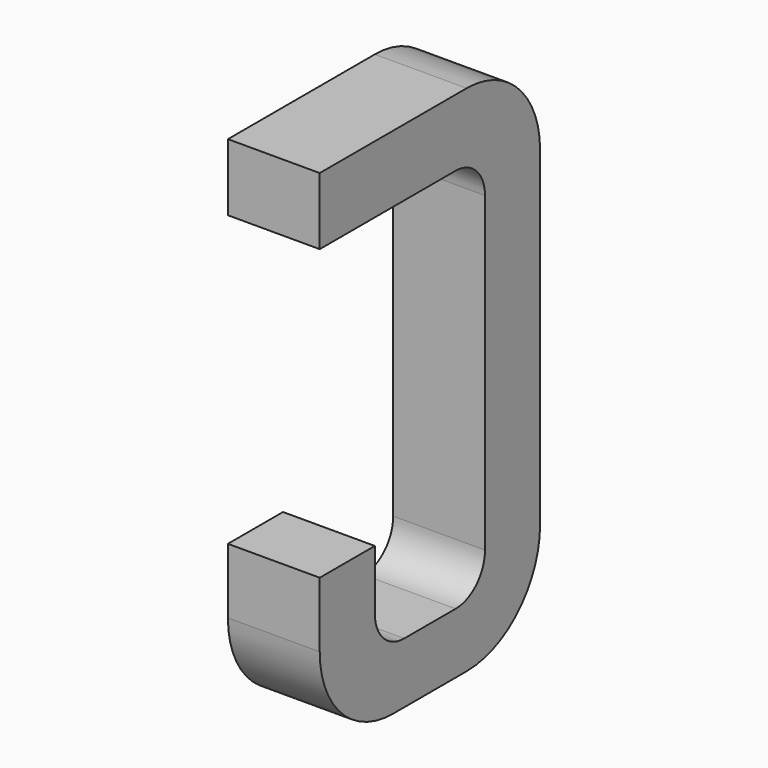
from build123d import *

# Parameters (mm, degrees)
BOX033_W     = 0.5
BOX033_H     = 1.5
BOX033_DEPTH = 2.795
FILLET099_R  = 0.5
FILLET056_R  = 0.5
FILLET109_R  = 0.5
BOX031_W     = 0.75
BOX031_H     = 2.1
BOX031_DEPTH = 1
FILLET111_R  = 0.2
FILLET060_R  = 0.2
FILLET107_R  = 0.2
FILLET108_R  = 0.2
BOX034_W     = 1
BOX034_H     = 1.575
BOX034_DEPTH = 3


with BuildPart() as part:
    # Box033 → Box033 (join)
    with BuildSketch(Plane(origin=(-0.25, 11.125, 0), x_dir=(1, 0, 0), z_dir=(0, 0, 1))):
        with Locations((0.25, 0.75)):
            Rectangle(BOX033_W, BOX033_H)
    extrude(amount=BOX033_DEPTH)

    # Fillet099
    fillet099_edges = [part.edges().sort_by_distance(p)[0] for p in [
        (0, 12.625, 0),
    ]]
    fillet(fillet099_edges, radius=FILLET099_R)

    # Fillet056
    fillet056_edges = [part.edges().sort_by_distance(p)[0] for p in [
        (0, 12.625, 2.795),
    ]]
    fillet(fillet056_edges, radius=FILLET056_R)

    # Fillet109
    fillet109_edges = [part.edges().sort_by_distance(p)[0] for p in [
        (0, 11.125, 0),
    ]]
    fillet(fillet109_edges, radius=FILLET109_R)

    # Box031 → Box031 (cut)
    with BuildSketch(Plane(origin=(-0.5, 11.5, 0.33), x_dir=(0, 1, 0), z_dir=(1, 0, 0))):
        with Locations((0.375, 1.05)):
            Rectangle(BOX031_W, BOX031_H)
    extrude(amount=BOX031_DEPTH, mode=Mode.SUBTRACT)

    # Fillet111
    fillet111_edges = [part.edges().sort_by_distance(p)[0] for p in [
        (0, 11.5, 0.33),
    ]]
    fillet(fillet111_edges, radius=FILLET111_R)

    # Fillet060
    fillet060_edges = [part.edges().sort_by_distance(p)[0] for p in [
        (0, 12.25, 0.33),
    ]]
    fillet(fillet060_edges, radius=FILLET060_R)

    # Fillet107
    fillet107_edges = [part.edges().sort_by_distance(p)[0] for p in [
        (0, 11.5, 2.43),
    ]]
    fillet(fillet107_edges, radius=FILLET107_R)

    # Fillet108
    fillet108_edges = [part.edges().sort_by_distance(p)[0] for p in [
        (0, 12.25, 2.43),
    ]]
    fillet(fillet108_edges, radius=FILLET108_R)

    # Box034 → Box034 (cut)
    with BuildSketch(Plane(origin=(-1, 11, 0.855), x_dir=(0, 1, 0), z_dir=(1, 0, 0))):
        with Locations((0.5, 0.7875)):
            Rectangle(BOX034_W, BOX034_H)
    extrude(amount=BOX034_DEPTH, mode=Mode.SUBTRACT)


with BuildPart() as part_1:
    # Body016 placement: moved
    add(part.part.moved(Location((8.89, 0, 0))))


solid = part_1.part
